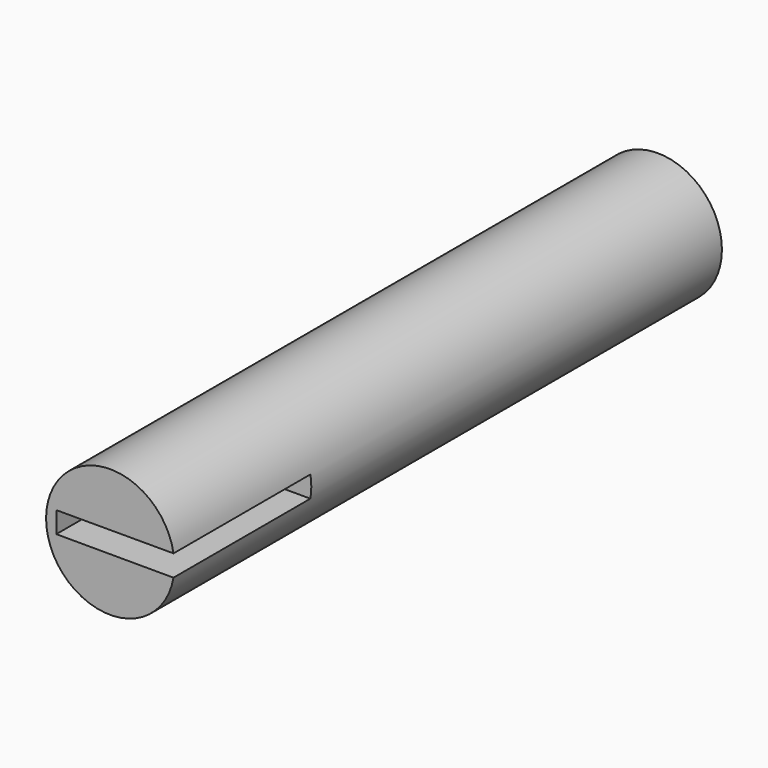
from build123d import *

# Parameters (mm, degrees)
F0_R     = 9.525
F1_DEPTH = 101.6
F3_DEPTH = 25.4


with BuildPart() as f1:
    # F0 (on Front) → F1 (new body)
    with BuildSketch(Plane.XZ):
        Circle(F0_R)
    extrude(amount=F1_DEPTH)

    # F2 (on face) → F3 (cut)
    with BuildSketch(Plane.XZ.offset(101.6)):
        Polygon((-8.010456, 1.566258), (-8.010456, -1.578305), (9.595488, -1.608742), (9.595488, 1.566258), align=None)
    extrude(amount=-F3_DEPTH, mode=Mode.SUBTRACT)


solid = f1.part
